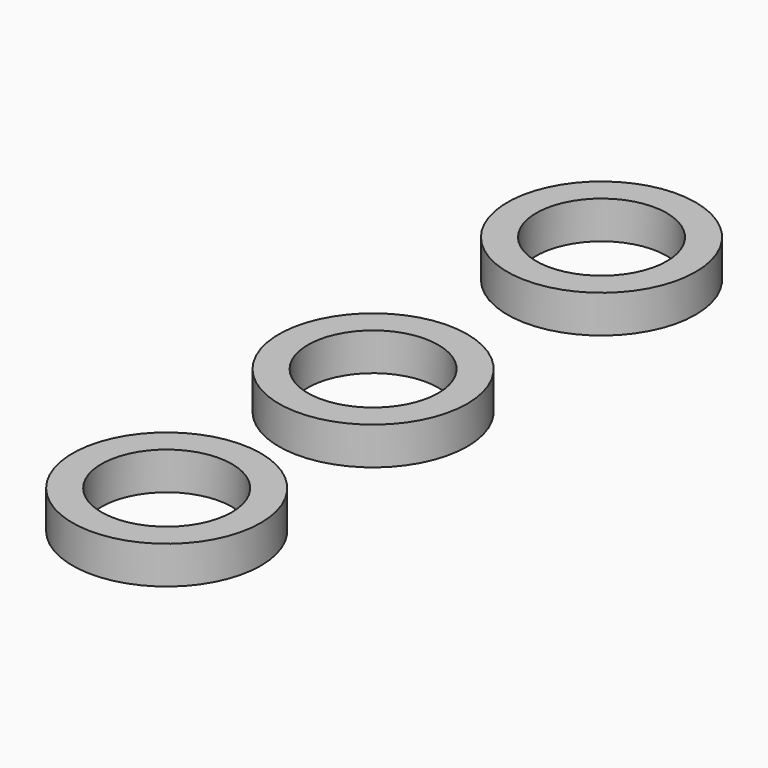
from build123d import *

# Parameters (mm, degrees)
F1_R     = 15.875
F1_R_2   = 10.9982
F0_R     = 15.875
F0_R_2   = 10.9982
F2_DEPTH = 6.35


with BuildPart() as f2:
    # F1 (on Top) + F0 (on Top) → F2 (new body)
    with BuildSketch(Plane.XY):
        with Locations((0, 48.129804)):
            Circle(F1_R)
        with Locations((0, 48.129804)):
            Circle(F1_R_2, mode=Mode.SUBTRACT)
        with Locations((0, -43.487061)):
            Circle(F1_R)
        with Locations((0, -43.487061)):
            Circle(F1_R_2, mode=Mode.SUBTRACT)
    with BuildSketch(Plane.XY):
        Circle(F0_R)
        Circle(F0_R_2, mode=Mode.SUBTRACT)
    extrude(amount=F2_DEPTH)


solid = f2.part
